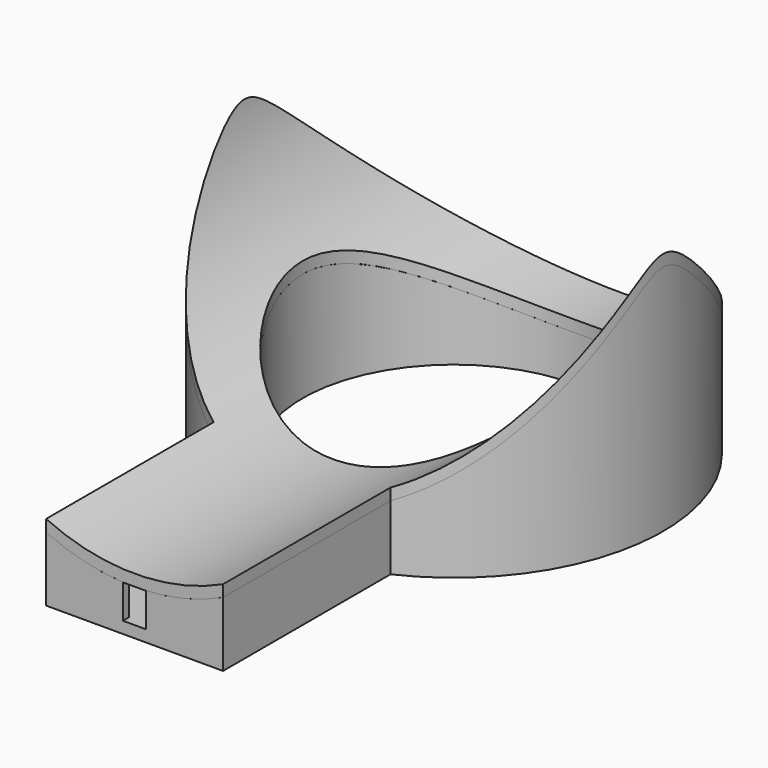
from build123d import *

# Parameters (mm, degrees)
SKETCH014_R          = 18
PAD004_DEPTH         = 22
SKETCH018_W          = 15.214258
SKETCH018_H          = 18
PAD005_DEPTH         = 4
POCKET012_DEPTH      = 18.001
POCKET012_DEPTH_BACK = -34.31454
SKETCH017_R          = 13
POCKET013_DEPTH      = 11
SKETCH019_W          = 13.284858
SKETCH019_H          = 18
PAD006_DEPTH         = 2
POCKET011_DEPTH      = 18.001
POCKET011_DEPTH_BACK = -34.31454
SKETCH002_R          = 17
PAD001_DEPTH         = 21
POCKET003_DEPTH      = 17.001
POCKET003_DEPTH_BACK = 17.001
SKETCH009_R          = 13
POCKET008_DEPTH      = 0.001
POCKET008_DEPTH_BACK = -10.835849
SKETCH_R             = 18
PAD_DEPTH            = 30
SKETCH004_R          = 17
POCKET002_DEPTH      = 30
POCKET005_DEPTH      = 0.001
POCKET005_DEPTH_BACK = -30.001
SKETCH008_R          = 13
POCKET006_DEPTH      = 0.001
POCKET006_DEPTH_BACK = -30.001
SKETCH010_W          = 15.214258
SKETCH010_H          = 18
PAD003_DEPTH         = 7
SKETCH011_W          = 13.284858
SKETCH011_H          = 18
POCKET009_DEPTH      = 6
POCKET_DEPTH         = 18.001
POCKET_DEPTH_BACK    = -34.31454
SKETCH012_W          = 2
SKETCH012_H          = 4
POCKET010_DEPTH      = 5
SKETCH005_R          = 14
PAD002_DEPTH         = 20
POCKET004_DEPTH      = 14.001
POCKET004_DEPTH_BACK = -14.001
SKETCH007_R          = 13
POCKET007_DEPTH      = 0.001
POCKET007_DEPTH_BACK = -10.511875


with BuildPart() as cover001:
    # Sketch014 → Pad004 (new body)
    with BuildSketch(Plane.XY.offset(22)):
        Circle(SKETCH014_R)
    extrude(amount=-PAD004_DEPTH)

    # Sketch018 → Pad005 (join)
    with BuildSketch(Plane.XY.offset(7)):
        with Locations((0, -25.31354)):
            Rectangle(SKETCH018_W, SKETCH018_H)
    extrude(amount=-PAD005_DEPTH)

    # Sketch016 → Pocket012 (cut, two sides)
    with BuildSketch(Plane.XZ) as pocket012_sk:
        with BuildLine():
            Line((-18, 0), (18, 0))
            Line((18, 20), (18, 0))
            ThreePointArc((-18, 20), (0, 3.88923), (18, 20))
            Line((-18, 20), (-18, 0))
        make_face()
    extrude(amount=-POCKET012_DEPTH, mode=Mode.SUBTRACT)
    extrude(pocket012_sk.sketch, amount=-POCKET012_DEPTH_BACK, mode=Mode.SUBTRACT)

    # Sketch017 → Pocket013 (cut)
    with BuildSketch(Plane.XY.offset(1)):
        Circle(SKETCH017_R)
    extrude(amount=POCKET013_DEPTH, mode=Mode.SUBTRACT)

    # Sketch019 → Pad006 (join)
    with BuildSketch(Plane.XY.offset(6)):
        with Locations((0, -24.648583)):
            Rectangle(SKETCH019_W, SKETCH019_H)
    extrude(amount=-PAD006_DEPTH)

    # Sketch013 → Pocket011 (cut, two sides)
    with BuildSketch(Plane.XZ) as pocket011_sk:
        with BuildLine():
            Line((-18, 36), (18, 36))
            Line((18, 36), (18, 21))
            ThreePointArc((-18, 21), (0, 4.88923), (18, 21))
            Line((-18, 21), (-18, 36))
        make_face()
    extrude(amount=-POCKET011_DEPTH, mode=Mode.SUBTRACT)
    extrude(pocket011_sk.sketch, amount=-POCKET011_DEPTH_BACK, mode=Mode.SUBTRACT)


with BuildPart() as body001:
    # Sketch002 → Pad001 (new body)
    with BuildSketch(Plane.XY):
        Circle(SKETCH002_R)
    extrude(amount=PAD001_DEPTH)

    # Sketch003 → Pocket003 (cut, two sides)
    with BuildSketch(Plane.XZ) as pocket003_sk:
        with BuildLine():
            Line((-18, 28), (18, 28))
            Line((18, 28), (18, 13))
            ThreePointArc((-18, 13), (0, 0.686792), (18, 13))
            Line((-18, 13), (-18, 28))
        make_face()
    extrude(amount=POCKET003_DEPTH, mode=Mode.SUBTRACT)
    extrude(pocket003_sk.sketch, amount=-POCKET003_DEPTH_BACK, mode=Mode.SUBTRACT)

    # Sketch009 → Pocket008 (cut, two sides)
    with BuildSketch(Plane.XY) as pocket008_sk:
        Circle(SKETCH009_R)
    extrude(amount=-POCKET008_DEPTH, mode=Mode.SUBTRACT)
    extrude(pocket008_sk.sketch, amount=-POCKET008_DEPTH_BACK, mode=Mode.SUBTRACT)


with BuildPart() as body:
    # Sketch → Pad (new body)
    with BuildSketch(Plane.XY):
        Circle(SKETCH_R)
    extrude(amount=PAD_DEPTH)

    # Sketch004 → Pocket002 (cut)
    with BuildSketch(Plane.XY):
        Circle(SKETCH004_R)
    extrude(amount=POCKET002_DEPTH, mode=Mode.SUBTRACT)

    # Sketch004 → Pocket005 (cut, two sides)
    with BuildSketch(Plane.XY) as pocket005_sk:
        Circle(SKETCH004_R)
    extrude(amount=-POCKET005_DEPTH, mode=Mode.SUBTRACT)
    extrude(pocket005_sk.sketch, amount=-POCKET005_DEPTH_BACK, mode=Mode.SUBTRACT)

    # Sketch008 → Pocket006 (cut, two sides)
    with BuildSketch(Plane.XY) as pocket006_sk:
        Circle(SKETCH008_R)
    extrude(amount=-POCKET006_DEPTH, mode=Mode.SUBTRACT)
    extrude(pocket006_sk.sketch, amount=-POCKET006_DEPTH_BACK, mode=Mode.SUBTRACT)

    # Sketch010 → Pad003 (join)
    with BuildSketch(Plane.XY):
        with Locations((0, -25.31354)):
            Rectangle(SKETCH010_W, SKETCH010_H)
    extrude(amount=PAD003_DEPTH)

    # Sketch011 → Pocket009 (cut)
    with BuildSketch(Plane.XY.offset(7)):
        with Locations((0, -24.648583)):
            Rectangle(SKETCH011_W, SKETCH011_H)
    extrude(amount=-POCKET009_DEPTH, mode=Mode.SUBTRACT)

    # Sketch001 → Pocket (cut, two sides)
    with BuildSketch(Plane.XZ) as pocket_sk:
        with BuildLine():
            Line((-18, 35), (18, 35))
            Line((18, 35), (18, 20))
            ThreePointArc((-18, 20), (0, 3.88923), (18, 20))
            Line((-18, 20), (-18, 35))
        make_face()
    extrude(amount=-POCKET_DEPTH, mode=Mode.SUBTRACT)
    extrude(pocket_sk.sketch, amount=-POCKET_DEPTH_BACK, mode=Mode.SUBTRACT)

    # Sketch012 → Pocket010 (cut)
    with BuildSketch(Plane.XZ.offset(35)):
        with Locations((0, 3)):
            Rectangle(SKETCH012_W, SKETCH012_H)
    extrude(amount=-POCKET010_DEPTH, mode=Mode.SUBTRACT)


with BuildPart() as body003:
    # Sketch005 → Pad002 (new body)
    with BuildSketch(Plane.XY):
        Circle(SKETCH005_R)
    extrude(amount=PAD002_DEPTH)

    # Sketch006 → Pocket004 (cut, two sides)
    with BuildSketch(Plane.XZ) as pocket004_sk:
        with BuildLine():
            Line((-18, 34), (18, 34))
            Line((18, 34), (18, 20))
            ThreePointArc((-18, 20), (0, 3.88923), (18, 20))
            Line((-18, 20), (-18, 34))
        make_face()
    extrude(amount=-POCKET004_DEPTH, mode=Mode.SUBTRACT)
    extrude(pocket004_sk.sketch, amount=-POCKET004_DEPTH_BACK, mode=Mode.SUBTRACT)

    # Sketch007 → Pocket007 (cut, two sides)
    with BuildSketch(Plane.XY) as pocket007_sk:
        Circle(SKETCH007_R)
    extrude(amount=-POCKET007_DEPTH, mode=Mode.SUBTRACT)
    extrude(pocket007_sk.sketch, amount=-POCKET007_DEPTH_BACK, mode=Mode.SUBTRACT)

    # Fusion: union Body001, Body
    add(body001.part)
    add(body.part)


solid = Compound([cover001.part, body003.part])
